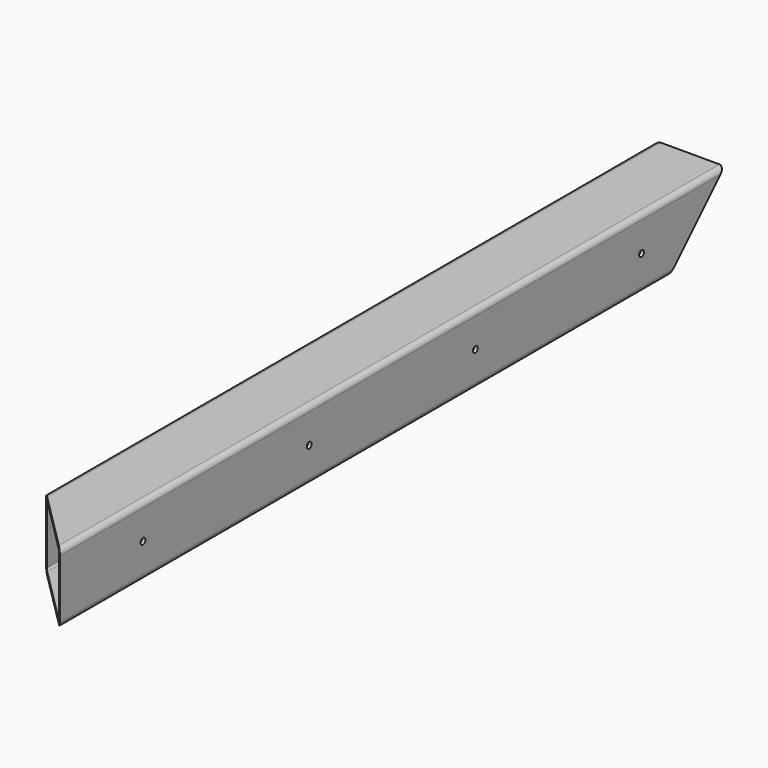
from build123d import *

# Parameters (mm, degrees)
F2_W            = 40
F2_H            = 40
F3_DEPTH        = 240
F4_R            = 3
F5_T            = -2
F7_DEPTH        = 40.001
F9_DEPTH        = 40.001
F11_D           = 3.5
F11_CSINK_D     = 6
F11_CSINK_ANGLE = 90


with BuildPart() as f3:
    # F2 (on Front) → F3 (new body, symmetric)
    with BuildSketch(Plane.XZ):
        Rectangle(F2_W, F2_H)
    extrude(amount=F3_DEPTH, both=True)

    # F4
    f4_edges = [f3.edges().sort_by_distance(p)[0] for p in [
        (20, 0, 20),
        (-20, 0, 20),
        (20, 0, -20),
        (-20, 0, -20),
    ]]
    fillet(f4_edges, radius=F4_R)

    # F5
    f5_openings = [f3.faces().sort_by_distance(p)[0] for p in [
        (0, -240, 0),
        (0, 240, 0),
    ]]
    offset(amount=F5_T, openings=f5_openings)

    # F6 (on face) → F7 (cut, through all)
    with BuildSketch(Plane(origin=(-20, 0, 0), x_dir=(0, -1, 0), z_dir=(-1, 0, 0))):
        Polygon((-240, 20), (-240, -20), (-200, -20), align=None)
    extrude(amount=-F7_DEPTH, mode=Mode.SUBTRACT)

    # F8 (on face) → F9 (cut, through all)
    with BuildSketch(Plane.XY.offset(20)):
        Polygon((-20, -200), (-20, -240), (20, -240), align=None)
    extrude(amount=-F9_DEPTH, mode=Mode.SUBTRACT)

    # F11 (through all)
    with Locations(Plane(origin=(-20, 0, 0), x_dir=(0, -1, 0), z_dir=(-1, 0, 0))):
        with Locations((-180, 0), (-60, 0), (60, 0), (180, 0)):
            CounterSinkHole(F11_D / 2, F11_CSINK_D / 2, counter_sink_angle=F11_CSINK_ANGLE)


solid = f3.part
